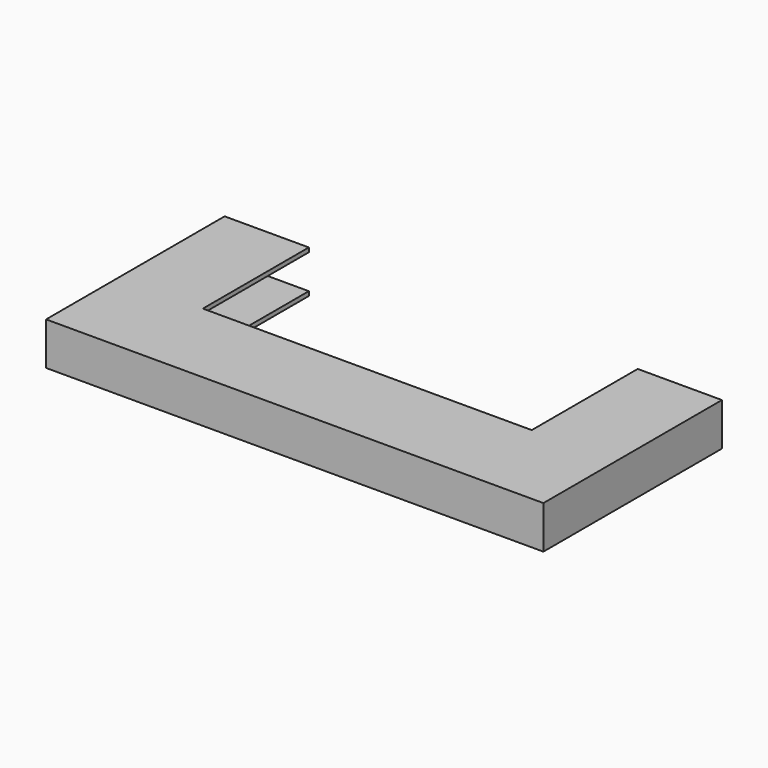
from build123d import *

# Parameters (mm, degrees)
F1_DEPTH = 25.4
F2_T     = -2.54


with BuildPart() as f1:
    # F0 (on Top) → F1 (new body)
    with BuildSketch(Plane.XY):
        Polygon((-90.232853, 95.789493), (-140.232853, 95.789493), (-140.232853, -36.707178), (155.044394, -36.707178), (155.044394, 95.789493), (105.044394, 95.789493), (105.044394, 17.147371), (-90.232853, 17.147371), align=None)
    extrude(amount=F1_DEPTH)

    # F2
    f2_openings = [f1.faces().sort_by_distance(p)[0] for p in [
        (-115.232853, 95.789493, 12.7),
        (7.405771, 17.147371, 12.7),
        (-90.232853, 56.468432, 12.7),
        (105.044394, 56.468432, 12.7),
        (130.044394, 95.789493, 12.7),
    ]]
    offset(amount=F2_T, openings=f2_openings)


solid = f1.part
